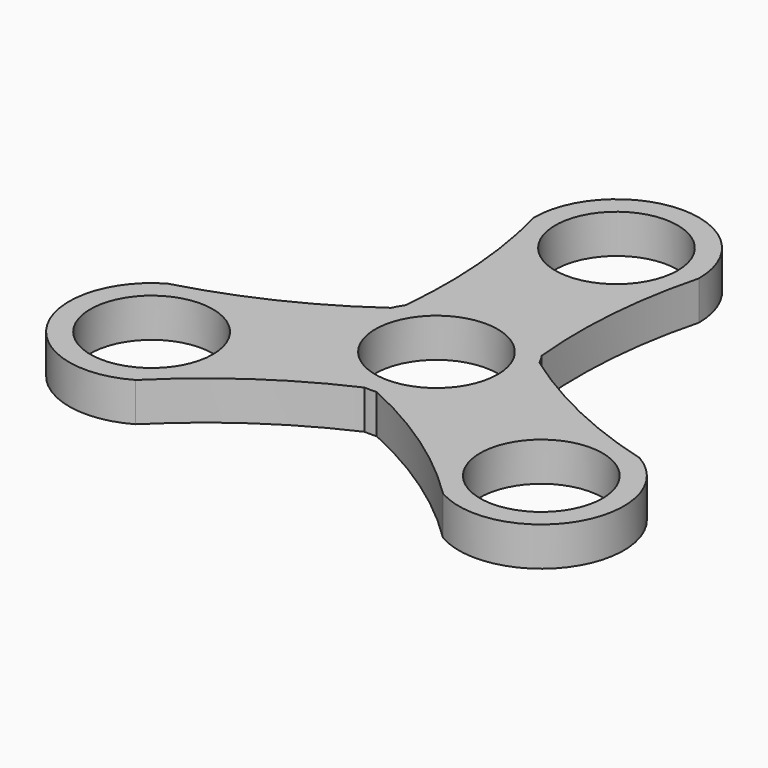
from build123d import *

# Parameters (mm, degrees)
F0_R     = 10.9982
F1_DEPTH = 7


with BuildPart() as f1:
    # F0 (on Top) → F1 (new body)
    with BuildSketch(Plane.XY):
        with BuildLine():
            ThreePointArc((12.246776, 8.324618), (12.094028, 24.483764), (14.8082, 40.414069))
            ThreePointArc((14.8082, 40.414069), (0, 55.222269), (-14.8082, 40.414069))
            ThreePointArc((-14.8082, 40.414069), (-12.094028, 24.483764), (-12.246776, 8.324618))
            ThreePointArc((-12.246776, 8.324618), (-12.824277, 7.4041), (-13.332719, 6.44371))
            ThreePointArc((-13.332719, 6.44371), (-27.250576, -1.768146), (-42.40371, -7.382757))
            ThreePointArc((-42.40371, -7.382757), (-47.823888, -27.611134), (-27.59551, -33.031312))
            ThreePointArc((-27.59551, -33.031312), (-15.156548, -22.715618), (-1.085942, -14.768328))
            ThreePointArc((-1.085942, -14.768328), (0, -14.8082), (1.085942, -14.768328))
            ThreePointArc((1.085942, -14.768328), (15.156548, -22.715618), (27.59551, -33.031312))
            ThreePointArc((27.59551, -33.031312), (47.823888, -27.611134), (42.40371, -7.382757))
            ThreePointArc((42.40371, -7.382757), (27.250576, -1.768146), (13.332719, 6.44371))
            ThreePointArc((13.332719, 6.44371), (12.824277, 7.4041), (12.246776, 8.324618))
        make_face()
        with Locations((-34.99961, -20.207034)):
            Circle(F0_R, mode=Mode.SUBTRACT)
        with Locations((34.99961, -20.207034)):
            Circle(F0_R, mode=Mode.SUBTRACT)
        Circle(F0_R, mode=Mode.SUBTRACT)
        with BuildLine():
            ThreePointArc((-10.9982, 40.414069), (0, 51.412269), (10.9982, 40.414069))
            ThreePointArc((10.9982, 40.414069), (0, 29.415869), (-10.9982, 40.414069))
        make_face(mode=Mode.SUBTRACT)
    extrude(amount=F1_DEPTH)


solid = f1.part
